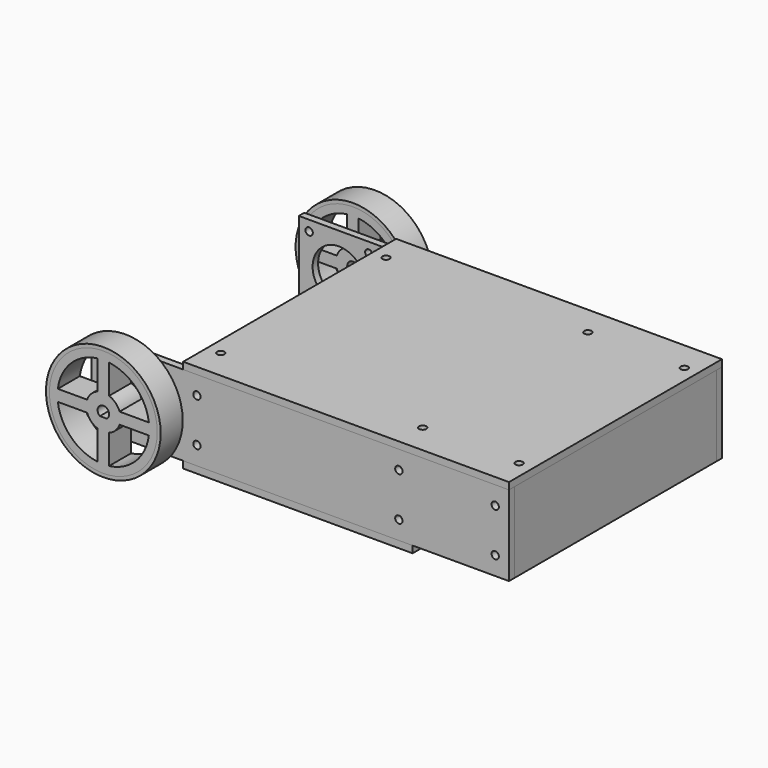
from build123d import *

# Parameters (mm, degrees)
SKETCH_R                = 25
PAD_DEPTH               = 12
BODY_PLACEMENT_ANGLE    = 90
SKETCH001_R             = 25
SKETCH001_R_2           = 23.5
PAD001_DEPTH            = 12
BODY001_PLACEMENT_ANGLE = 90
SKETCH002_W             = 182
SKETCH002_H             = 35
SKETCH002_R             = 11.5
SKETCH002_R_2           = 1.6
PAD002_DEPTH            = 3
SKETCH003_W             = 110
SKETCH003_H             = 35
PAD003_DEPTH            = 12
SKETCH004_R             = 1.25
POCKET_DEPTH            = 20
SKETCH005_R             = 1.25
POCKET001_DEPTH         = 20
SKETCH010_R             = 1.25
POCKET004_DEPTH         = 7
SKETCH011_R             = 1.25
POCKET005_DEPTH         = 7
BODY003_PLACEMENT_ANGLE = 90
SKETCH006_W             = 110
SKETCH006_H             = 35
PAD004_DEPTH            = 12
SKETCH007_R             = 1.25
POCKET002_DEPTH         = 20
SKETCH008_R             = 1.25
POCKET003_DEPTH         = 20
SKETCH012_R             = 1.25
POCKET006_DEPTH         = 7
SKETCH013_R             = 1.25
POCKET007_DEPTH         = 7
SKETCH014_W             = 7.5
SKETCH014_H             = 6
POCKET008_DEPTH         = 12
SKETCH015_W             = 5
SKETCH015_H             = 5
POCKET009_DEPTH         = 10
BODY004_PLACEMENT_ANGLE = 90
SKETCH016_W             = 110
SKETCH016_H             = 35
PAD005_DEPTH            = 12
SKETCH017_R             = 1.25
POCKET010_DEPTH         = 20
SKETCH018_R             = 1.25
POCKET011_DEPTH         = 20
SKETCH019_R             = 1.25
POCKET012_DEPTH         = 7
SKETCH020_R             = 1.25
POCKET013_DEPTH         = 7
SKETCH021_W             = 15
SKETCH021_H             = 20
POCKET014_DEPTH         = 12
BODY005_ROLL_ANGLE      = -90
BODY005_PLACEMENT_ANGLE = 90
SKETCH022_R             = 1.6
PAD007_DEPTH            = 3
BODY006_PLACEMENT_ANGLE = 90
SKETCH023_W             = 116
SKETCH023_H             = 142
SKETCH023_R             = 1.6
PAD006_DEPTH            = 3
BODY007_PLACEMENT_ANGLE = 90
SKETCH024_R             = 25
PAD008_DEPTH            = 12
BODY008_PLACEMENT_ANGLE = 90
SKETCH025_W             = 182
SKETCH025_H             = 35
SKETCH025_R             = 11.5
SKETCH025_R_2           = 1.6
PAD009_DEPTH            = 3
SKETCH026_R             = 25
SKETCH026_R_2           = 23.5
PAD010_DEPTH            = 12
BODY010_PLACEMENT_ANGLE = 90


with BuildPart() as wheelbody:
    # Sketch → Pad (new body)
    with BuildSketch(Plane.XY):
        Circle(SKETCH_R)
        with BuildLine():
            ThreePointArc((-2.5, 19.843135), (-14.142136, 14.142136), (-19.843135, 2.5))
            Line((-19.843135, 2.5), (-7.071068, 2.5))
            ThreePointArc((-2.5, 7.071068), (-5.303301, 5.303301), (-7.071068, 2.5))
            Line((-2.5, 7.071068), (-2.5, 19.843135))
        make_face(mode=Mode.SUBTRACT)
        with BuildLine():
            ThreePointArc((-7.071068, -2.5), (-5.303301, -5.303301), (-2.5, -7.071068))
            Line((-2.5, -7.071068), (-2.5, -19.843135))
            ThreePointArc((-19.843135, -2.5), (-14.142136, -14.142136), (-2.5, -19.843135))
            Line((-19.843135, -2.5), (-7.071068, -2.5))
        make_face(mode=Mode.SUBTRACT)
        with BuildLine():
            Line((2.5, 7.071068), (2.5, 19.843135))
            ThreePointArc((19.843135, 2.5), (14.142136, 14.142136), (2.5, 19.843135))
            Line((7.071068, 2.5), (19.843135, 2.5))
            ThreePointArc((7.071068, 2.5), (5.303301, 5.303301), (2.5, 7.071068))
        make_face(mode=Mode.SUBTRACT)
        with BuildLine():
            Line((7.071068, -2.5), (19.843135, -2.5))
            ThreePointArc((2.5, -19.843135), (14.142136, -14.142136), (19.843135, -2.5))
            Line((2.5, -7.071068), (2.5, -19.843135))
            ThreePointArc((2.5, -7.071068), (5.303301, -5.303301), (7.071068, -2.5))
        make_face(mode=Mode.SUBTRACT)
        with BuildLine():
            ThreePointArc((-1.5, 2), (0, -2.5), (1.5, 2))
            Line((-1.5, 2), (1.5, 2))
        make_face(mode=Mode.SUBTRACT)
    extrude(amount=PAD_DEPTH)


with BuildPart() as wheelbody_1:
    # Body placement: moved
    add(wheelbody.part.moved(Location((18, -19, 18))).rotate(Axis((18, -19, 18), (-1, 0, 0)), BODY_PLACEMENT_ANGLE))


with BuildPart() as wheelrubberbody:
    # Sketch001 → Pad001 (new body)
    with BuildSketch(Plane.XY):
        Circle(SKETCH001_R)
        Circle(SKETCH001_R_2, mode=Mode.SUBTRACT)
    extrude(amount=PAD001_DEPTH)


with BuildPart() as wheelrubberbody_1:
    # Body001 placement: moved
    add(wheelrubberbody.part.moved(Location((18, -7, 18))).rotate(Axis((18, -7, 18), (1, 0, 0)), BODY001_PLACEMENT_ANGLE))


with BuildPart() as sidebody:
    # Sketch002 → Pad002 (new body)
    with BuildSketch(Plane.XZ):
        with Locations((91, 17.5)):
            Rectangle(SKETCH002_W, SKETCH002_H)
        with Locations((17.5, 17.5)):
            Circle(SKETCH002_R, mode=Mode.SUBTRACT)
        with Locations((4.5, 30.5)):
            Circle(SKETCH002_R_2, mode=Mode.SUBTRACT)
        with Locations((30.5, 30.5)):
            Circle(SKETCH002_R_2, mode=Mode.SUBTRACT)
        with Locations((4.5, 4.5)):
            Circle(SKETCH002_R_2, mode=Mode.SUBTRACT)
        with Locations((30.5, 4.5)):
            Circle(SKETCH002_R_2, mode=Mode.SUBTRACT)
        with Locations((134, 27)):
            Circle(SKETCH002_R_2, mode=Mode.SUBTRACT)
        with Locations((134, 8)):
            Circle(SKETCH002_R_2, mode=Mode.SUBTRACT)
        with Locations((46, 27)):
            Circle(SKETCH002_R_2, mode=Mode.SUBTRACT)
        with Locations((46, 8)):
            Circle(SKETCH002_R_2, mode=Mode.SUBTRACT)
        with Locations((176, 27)):
            Circle(SKETCH002_R_2, mode=Mode.SUBTRACT)
        with Locations((176, 8)):
            Circle(SKETCH002_R_2, mode=Mode.SUBTRACT)
    extrude(amount=PAD002_DEPTH)


with BuildPart() as separatorbodytop:
    # Sketch003 → Pad003 (new body)
    with BuildSketch(Plane.XZ):
        with Locations((55, 17.5)):
            Rectangle(SKETCH003_W, SKETCH003_H)
    extrude(amount=PAD003_DEPTH)

    # Sketch004 (on Face4 of Pad003) → Pocket (cut)
    with BuildSketch(Plane(origin=(0, 0, 0), x_dir=(0, 0, -1), z_dir=(-1, 0, 0))):
        with Locations((-27, 6)):
            Circle(SKETCH004_R)
        with Locations((-8, 6)):
            Circle(SKETCH004_R)
    extrude(amount=-POCKET_DEPTH, mode=Mode.SUBTRACT)

    # Sketch005 (on Face3 of Pocket) → Pocket001 (cut)
    with BuildSketch(Plane(origin=(110, 0, 0), x_dir=(0, 0, 1), z_dir=(1, 0, 0))):
        with Locations((8, 6)):
            Circle(SKETCH005_R)
        with Locations((27, 6)):
            Circle(SKETCH005_R)
    extrude(amount=-POCKET001_DEPTH, mode=Mode.SUBTRACT)

    # Sketch010 (on Face1 of Pocket001) → Pocket004 (cut)
    with BuildSketch(Plane(origin=(0, 0, 0), x_dir=(1, 0, 0), z_dir=(0, 0, -1))):
        with Locations((10, 6)):
            Circle(SKETCH010_R)
        with Locations((100, 6)):
            Circle(SKETCH010_R)
    extrude(amount=-POCKET004_DEPTH, mode=Mode.SUBTRACT)

    # Sketch011 (on Face8 of Pocket004) → Pocket005 (cut)
    with BuildSketch(Plane(origin=(0, 0, 35), x_dir=(-1, 0, 0), z_dir=(0, 0, 1))):
        with Locations((-100, 6)):
            Circle(SKETCH011_R)
        with Locations((-10, 6)):
            Circle(SKETCH011_R)
    extrude(amount=-POCKET005_DEPTH, mode=Mode.SUBTRACT)


with BuildPart() as separatorbodytop_1:
    # Body003 placement: moved
    add(separatorbodytop.part.moved(Location((170, 0, 0))).rotate(Axis((170, 0, 0), (0, 0, 1)), BODY003_PLACEMENT_ANGLE))


with BuildPart() as separatorbodysecond:
    # Sketch006 → Pad004 (new body)
    with BuildSketch(Plane.XZ):
        with Locations((55, 17.5)):
            Rectangle(SKETCH006_W, SKETCH006_H)
    extrude(amount=PAD004_DEPTH)

    # Sketch007 (on Face2 of Pad004) → Pocket002 (cut)
    with BuildSketch(Plane(origin=(110, 0, 0), x_dir=(0, 0, 1), z_dir=(1, 0, 0))):
        with Locations((8, 6)):
            Circle(SKETCH007_R)
        with Locations((27, 6)):
            Circle(SKETCH007_R)
    extrude(amount=-POCKET002_DEPTH, mode=Mode.SUBTRACT)

    # Sketch008 (on Face2 of Pocket002) → Pocket003 (cut)
    with BuildSketch(Plane(origin=(0, 0, 0), x_dir=(0, 0, -1), z_dir=(-1, 0, 0))):
        with Locations((-27, 6)):
            Circle(SKETCH008_R)
        with Locations((-8, 6)):
            Circle(SKETCH008_R)
    extrude(amount=-POCKET003_DEPTH, mode=Mode.SUBTRACT)

    # Sketch012 (on Face6 of Pocket003) → Pocket006 (cut)
    with BuildSketch(Plane(origin=(0, 0, 35), x_dir=(-1, 0, 0), z_dir=(0, 0, 1))):
        with Locations((-100, 6)):
            Circle(SKETCH012_R)
        with Locations((-10, 6)):
            Circle(SKETCH012_R)
    extrude(amount=-POCKET006_DEPTH, mode=Mode.SUBTRACT)

    # Sketch013 (on Face1 of Pocket006) → Pocket007 (cut)
    with BuildSketch(Plane(origin=(0, 0, 0), x_dir=(1, 0, 0), z_dir=(0, 0, -1))):
        with Locations((10, 6)):
            Circle(SKETCH013_R)
        with Locations((100, 6)):
            Circle(SKETCH013_R)
    extrude(amount=-POCKET007_DEPTH, mode=Mode.SUBTRACT)

    # Sketch014 (on Face3 of Pocket007) → Pocket008 (cut)
    with BuildSketch(Plane(origin=(0, 0, 0), x_dir=(1, 0, 0), z_dir=(0, 1, 0))):
        with Locations((3.75, -3)):
            Rectangle(SKETCH014_W, SKETCH014_H)
    extrude(amount=-POCKET008_DEPTH, mode=Mode.SUBTRACT)

    # Sketch015 (on Face1 of Pocket008) → Pocket009 (cut)
    with BuildSketch(Plane(origin=(0, 0, 0), x_dir=(1, 0, 0), z_dir=(0, 0, -1))):
        with Locations((27.5, 6)):
            Rectangle(SKETCH015_W, SKETCH015_H)
        with Locations((82.5, 6)):
            Rectangle(SKETCH015_W, SKETCH015_H)
    extrude(amount=-POCKET009_DEPTH, mode=Mode.SUBTRACT)


with BuildPart() as separatorbodysecond_1:
    # Body004 placement: moved
    add(separatorbodysecond.part.moved(Location((128, 0, 0))).rotate(Axis((128, 0, 0), (0, 0, 1)), BODY004_PLACEMENT_ANGLE))


with BuildPart() as separatorbodythird:
    # Sketch016 → Pad005 (new body)
    with BuildSketch(Plane.XY):
        with Locations((55, 17.5)):
            Rectangle(SKETCH016_W, SKETCH016_H)
    extrude(amount=PAD005_DEPTH)

    # Sketch017 (on Face4 of Pad005) → Pocket010 (cut)
    with BuildSketch(Plane(origin=(0, 0, 0), x_dir=(0, -1, 0), z_dir=(-1, 0, 0))):
        with Locations((-27, 6)):
            Circle(SKETCH017_R)
        with Locations((-8, 6)):
            Circle(SKETCH017_R)
    extrude(amount=-POCKET010_DEPTH, mode=Mode.SUBTRACT)

    # Sketch018 (on Face3 of Pocket010) → Pocket011 (cut)
    with BuildSketch(Plane.YZ.offset(110)):
        with Locations((8, 6)):
            Circle(SKETCH018_R)
        with Locations((27, 6)):
            Circle(SKETCH018_R)
    extrude(amount=-POCKET011_DEPTH, mode=Mode.SUBTRACT)

    # Sketch019 (on Face6 of Pocket011) → Pocket012 (cut)
    with BuildSketch(Plane(origin=(0, 35, 0), x_dir=(-1, 0, 0), z_dir=(0, 1, 0))):
        with Locations((-100, 6)):
            Circle(SKETCH019_R)
        with Locations((-10, 6)):
            Circle(SKETCH019_R)
    extrude(amount=-POCKET012_DEPTH, mode=Mode.SUBTRACT)

    # Sketch020 (on Face1 of Pocket012) → Pocket013 (cut)
    with BuildSketch(Plane.XZ):
        with Locations((10, 6)):
            Circle(SKETCH020_R)
        with Locations((100, 6)):
            Circle(SKETCH020_R)
    extrude(amount=-POCKET013_DEPTH, mode=Mode.SUBTRACT)

    # Sketch021 (on Face4 of Pocket013) → Pocket014 (cut)
    with BuildSketch(Plane.XY.offset(12)):
        with Locations((32.5, 17.5)):
            Rectangle(SKETCH021_W, SKETCH021_H)
        with Locations((77.5, 17.5)):
            Rectangle(SKETCH021_W, SKETCH021_H)
    extrude(amount=-POCKET014_DEPTH, mode=Mode.SUBTRACT)


with BuildPart() as separatorbodythird_1:
    # Body005 roll: moved
    add(separatorbodythird.part.rotate(Axis((0, 0, 0), (1, 0, 0)), BODY005_ROLL_ANGLE))


with BuildPart() as separatorbodythird_2:
    # Body005 placement: moved
    add(separatorbodythird_1.part.moved(Location((52, 0, 35))).rotate(Axis((52, 0, 35), (0, 0, 1)), BODY005_PLACEMENT_ANGLE))


with BuildPart() as frontpanelbody:
    # Sketch022 → Pad007 (new body)
    with BuildSketch(Plane.XY):
        Polygon((0, 0), (116, 0), (116, 100), (96, 100), (96, 88.1), (20, 88.1), (20, 100), (0, 100), align=None)
        with Locations((13, 94)):
            Circle(SKETCH022_R, mode=Mode.SUBTRACT)
        with Locations((103, 94)):
            Circle(SKETCH022_R, mode=Mode.SUBTRACT)
        with Locations((13, 6)):
            Circle(SKETCH022_R, mode=Mode.SUBTRACT)
        with Locations((103, 6)):
            Circle(SKETCH022_R, mode=Mode.SUBTRACT)
    extrude(amount=PAD007_DEPTH)


with BuildPart() as frontpanelbody_1:
    # Body006 placement: moved
    add(frontpanelbody.part.moved(Location((40, 113, -3))).rotate(Axis((40, 113, -3), (0, 0, -1)), BODY006_PLACEMENT_ANGLE))


with BuildPart() as backpanelbody:
    # Sketch023 → Pad006 (new body)
    with BuildSketch(Plane.XY):
        with Locations((58, 71)):
            Rectangle(SKETCH023_W, SKETCH023_H)
        with Locations((13, 6)):
            Circle(SKETCH023_R, mode=Mode.SUBTRACT)
        with Locations((103, 6)):
            Circle(SKETCH023_R, mode=Mode.SUBTRACT)
        with Locations((13, 94)):
            Circle(SKETCH023_R, mode=Mode.SUBTRACT)
        with Locations((103, 94)):
            Circle(SKETCH023_R, mode=Mode.SUBTRACT)
        with Locations((13, 136)):
            Circle(SKETCH023_R, mode=Mode.SUBTRACT)
        with Locations((103, 136)):
            Circle(SKETCH023_R, mode=Mode.SUBTRACT)
    extrude(amount=PAD006_DEPTH)


with BuildPart() as backpanelbody_1:
    # Body007 placement: moved
    add(backpanelbody.part.moved(Location((40, 113, 35))).rotate(Axis((40, 113, 35), (0, 0, -1)), BODY007_PLACEMENT_ANGLE))


with BuildPart() as wheelbody001:
    # Sketch024 → Pad008 (new body)
    with BuildSketch(Plane.XY):
        Circle(SKETCH024_R)
        with BuildLine():
            ThreePointArc((-2.5, 19.843135), (-14.142136, 14.142136), (-19.843135, 2.5))
            Line((-19.843135, 2.5), (-7.071068, 2.5))
            ThreePointArc((-2.5, 7.071068), (-5.303301, 5.303301), (-7.071068, 2.5))
            Line((-2.5, 7.071068), (-2.5, 19.843135))
        make_face(mode=Mode.SUBTRACT)
        with BuildLine():
            ThreePointArc((-7.071068, -2.5), (-5.303301, -5.303301), (-2.5, -7.071068))
            Line((-2.5, -7.071068), (-2.5, -19.843135))
            ThreePointArc((-19.843135, -2.5), (-14.142136, -14.142136), (-2.5, -19.843135))
            Line((-19.843135, -2.5), (-7.071068, -2.5))
        make_face(mode=Mode.SUBTRACT)
        with BuildLine():
            Line((2.5, 7.071068), (2.5, 19.843135))
            ThreePointArc((19.843135, 2.5), (14.142136, 14.142136), (2.5, 19.843135))
            Line((7.071068, 2.5), (19.843135, 2.5))
            ThreePointArc((7.071068, 2.5), (5.303301, 5.303301), (2.5, 7.071068))
        make_face(mode=Mode.SUBTRACT)
        with BuildLine():
            Line((7.071068, -2.5), (19.843135, -2.5))
            ThreePointArc((2.5, -19.843135), (14.142136, -14.142136), (19.843135, -2.5))
            Line((2.5, -7.071068), (2.5, -19.843135))
            ThreePointArc((2.5, -7.071068), (5.303301, -5.303301), (7.071068, -2.5))
        make_face(mode=Mode.SUBTRACT)
        with BuildLine():
            ThreePointArc((-1.5, 2), (0, -2.5), (1.5, 2))
            Line((-1.5, 2), (1.5, 2))
        make_face(mode=Mode.SUBTRACT)
    extrude(amount=PAD008_DEPTH)


with BuildPart() as wheelbody001_1:
    # Body008 placement: moved
    add(wheelbody001.part.moved(Location((18, 117, 18))).rotate(Axis((18, 117, 18), (-1, 0, 0)), BODY008_PLACEMENT_ANGLE))


with BuildPart() as sidebody001:
    # Sketch025 → Pad009 (new body)
    with BuildSketch(Plane.XZ):
        with Locations((91, 17.5)):
            Rectangle(SKETCH025_W, SKETCH025_H)
        with Locations((17.5, 17.5)):
            Circle(SKETCH025_R, mode=Mode.SUBTRACT)
        with Locations((4.5, 30.5)):
            Circle(SKETCH025_R_2, mode=Mode.SUBTRACT)
        with Locations((30.5, 30.5)):
            Circle(SKETCH025_R_2, mode=Mode.SUBTRACT)
        with Locations((4.5, 4.5)):
            Circle(SKETCH025_R_2, mode=Mode.SUBTRACT)
        with Locations((30.5, 4.5)):
            Circle(SKETCH025_R_2, mode=Mode.SUBTRACT)
        with Locations((134, 27)):
            Circle(SKETCH025_R_2, mode=Mode.SUBTRACT)
        with Locations((134, 8)):
            Circle(SKETCH025_R_2, mode=Mode.SUBTRACT)
        with Locations((46, 27)):
            Circle(SKETCH025_R_2, mode=Mode.SUBTRACT)
        with Locations((46, 8)):
            Circle(SKETCH025_R_2, mode=Mode.SUBTRACT)
        with Locations((176, 27)):
            Circle(SKETCH025_R_2, mode=Mode.SUBTRACT)
        with Locations((176, 8)):
            Circle(SKETCH025_R_2, mode=Mode.SUBTRACT)
    extrude(amount=PAD009_DEPTH)


with BuildPart() as sidebody001_1:
    # Body009 placement: moved
    add(sidebody001.part.moved(Location((0, 113, 0))))


with BuildPart() as wheelrubberbody001:
    # Sketch026 → Pad010 (new body)
    with BuildSketch(Plane.XY):
        Circle(SKETCH026_R)
        Circle(SKETCH026_R_2, mode=Mode.SUBTRACT)
    extrude(amount=PAD010_DEPTH)


with BuildPart() as wheelrubberbody001_1:
    # Body010 placement: moved
    add(wheelrubberbody001.part.moved(Location((18, 129, 18))).rotate(Axis((18, 129, 18), (1, 0, 0)), BODY010_PLACEMENT_ANGLE))


solid = Compound([wheelbody_1.part, wheelrubberbody_1.part, sidebody.part, separatorbodytop_1.part, separatorbodysecond_1.part, separatorbodythird_2.part, frontpanelbody_1.part, backpanelbody_1.part, wheelbody001_1.part, sidebody001_1.part, wheelrubberbody001_1.part])
